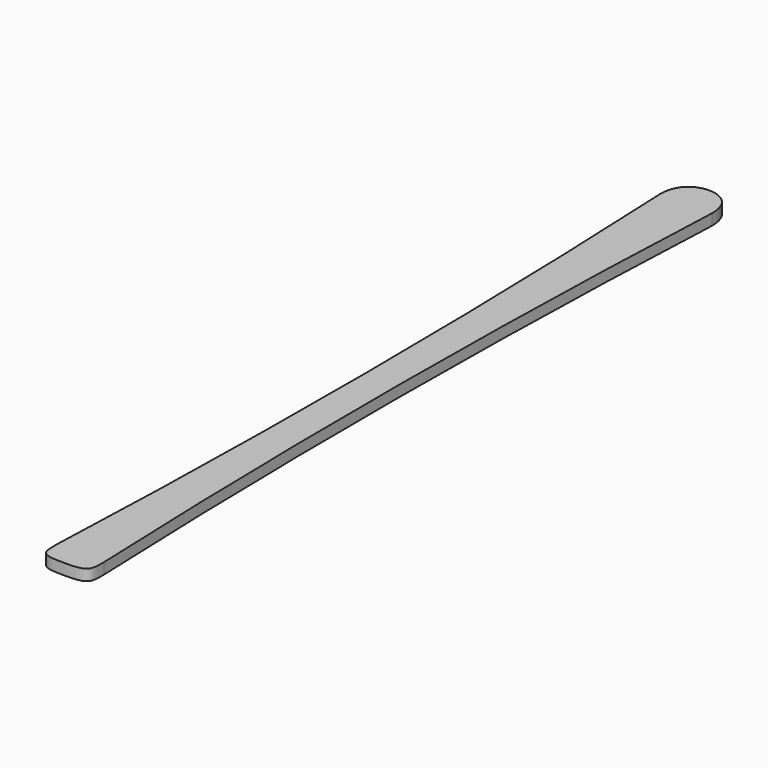
from build123d import *

# Parameters (mm, degrees)
F1_DEPTH = 25


with BuildPart() as f1:
    # F0 (on Top) → F1 (new body)
    with BuildSketch(Plane.XY):
        with BuildLine():
            ThreePointArc((54, 46.438552), (37.080501, 905.308628), (59, 1764.065643))
            add(Edge.make_bspline(
                [(59, 1764.065643), (59, 1818.725109), (21.209078, 1830), (0, 1830)],
                knots=[0, 0, 0, 0, 88.477904, 88.477904, 88.477904, 88.477904], degree=3))
            add(Edge.make_bspline(
                [(-59, 1764.065643), (-59, 1818.725109), (-21.209078, 1830), (0, 1830)],
                knots=[0, 0, 0, 0, 88.477904, 88.477904, 88.477904, 88.477904], degree=3))
            ThreePointArc((-59, 1764.065643), (-37.080501, 905.308628), (-54, 46.438552))
            add(Edge.make_bspline(
                [(-54, 46.438552), (-54, 8.131558), (-53.738109, 0), (0, 0)],
                knots=[0, 0, 0, 0, 71.22176, 71.22176, 71.22176, 71.22176], degree=3))
            add(Edge.make_bspline(
                [(54, 46.438552), (54, 8.131558), (53.738109, 0), (0, 0)],
                knots=[0, 0, 0, 0, 71.22176, 71.22176, 71.22176, 71.22176], degree=3))
        make_face()
    extrude(amount=F1_DEPTH)


solid = f1.part
